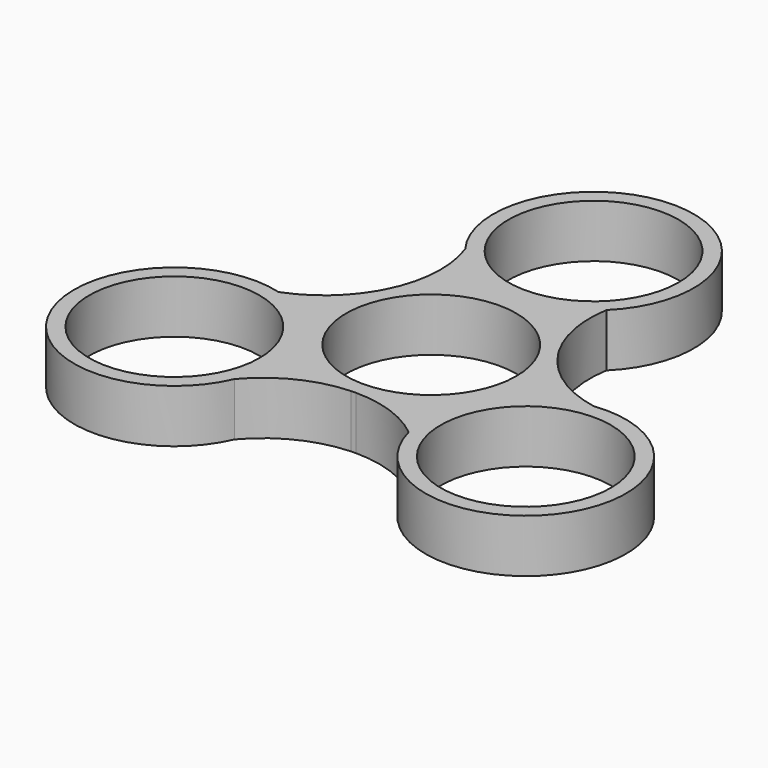
from build123d import *

# Parameters (mm, degrees)
F0_R     = 11.2
F1_DEPTH = 7


with BuildPart() as f1:
    # F0 (on Top) → F1 (new body)
    with BuildSketch(Plane.XY):
        with BuildLine():
            ThreePointArc((11.102888, 7.139039), (11.269932, 6.857798), (11.442949, 6.580191))
            ThreePointArc((11.442949, 6.580191), (11.276381, 6.861722), (11.102888, 7.139039))
        make_face()
        with BuildLine():
            ThreePointArc((21.606693, -0.244218), (15.812737, 2.107464), (11.442949, 6.580191))
            ThreePointArc((11.442949, 6.580191), (11.269932, 6.857798), (11.102888, 7.139039))
            ThreePointArc((11.102888, 7.139039), (9.291098, 12.050506), (9.240533, 17.285249))
            ThreePointArc((9.240533, 17.285249), (1.027722, 39.871343), (-10.591848, 18.834054))
            ThreePointArc((-10.591848, 18.834054), (-9.731486, 12.6405), (-11.420087, 6.61979))
            ThreePointArc((-11.420087, 6.61979), (-11.573993, 6.331149), (-11.734033, 6.045864))
            ThreePointArc((-11.734033, 6.045864), (-15.081593, 2.021074), (-19.589731, -0.640088))
            ThreePointArc((-19.589731, -0.640088), (-35.043457, -19.045638), (-11.014845, -18.589836))
            ThreePointArc((-11.014845, -18.589836), (-6.081251, -14.747964), (-0.022862, -13.19998))
            ThreePointArc((-0.022862, -13.19998), (0.304061, -13.188947), (0.631145, -13.184903))
            ThreePointArc((0.631145, -13.184903), (5.790495, -14.071579), (10.349198, -16.64516))
            ThreePointArc((10.349198, -16.64516), (34.015735, -20.825705), (21.606693, -0.244218))
        make_face()
        with Locations((-23.132761, -13.355706)):
            Circle(F0_R, mode=Mode.SUBTRACT)
        with Locations((23.132761, -13.355706)):
            Circle(F0_R, mode=Mode.SUBTRACT)
        Circle(F0_R, mode=Mode.SUBTRACT)
        with Locations((0, 26.711412)):
            Circle(F0_R, mode=Mode.SUBTRACT)
        with BuildLine():
            ThreePointArc((-0.022862, -13.19998), (0.304235, -13.196494), (0.631145, -13.184903))
            ThreePointArc((0.631145, -13.184903), (0.304061, -13.188947), (-0.022862, -13.19998))
        make_face()
        with BuildLine():
            ThreePointArc((-11.734033, 6.045864), (-11.573993, 6.331149), (-11.420087, 6.61979))
            ThreePointArc((-11.420087, 6.61979), (-11.580616, 6.334772), (-11.734033, 6.045864))
        make_face()
    extrude(amount=F1_DEPTH)


solid = f1.part
